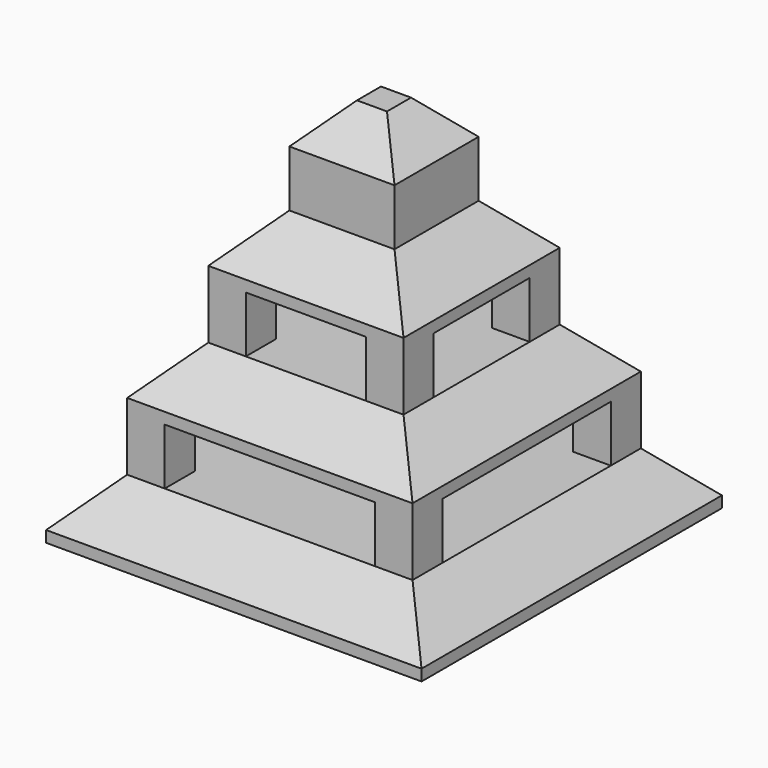
from build123d import *

# Parameters (mm, degrees)
F0_W      = 100
F0_H      = 100
F1_DEPTH  = 15
F2_SIZE   = 12
F3_W      = 10
F3_H      = 10
F4_DEPTH  = 15
F5_W      = 10
F5_H      = 10
F6_DEPTH  = 15
F7_SIZE   = 12
F8_W      = 10
F8_H      = 10
F9_DEPTH  = 15
F10_W     = 52
F10_H     = 52
F11_DEPTH = 15
F12_SIZE  = 12
F13_DEPTH = 25
F14_SIZE  = 10


with BuildPart() as f1:
    # F0 (on Top) → F1 (new body)
    with BuildSketch(Plane.XY):
        Rectangle(F0_W, F0_H)
    extrude(amount=F1_DEPTH)

    # F2
    f2_edges = [f1.edges().sort_by_distance(p)[0] for p in [
        (0, 50, 15),
        (-50, 0, 15),
        (0, -50, 15),
        (50, 0, 15),
    ]]
    chamfer(f2_edges, length=F2_SIZE)

    # F3 (on face) → F4 (join)
    with BuildSketch(Plane.XY.offset(15)):
        with Locations((-33, 33)):
            Rectangle(F3_W, F3_H)
        with Locations((33, 33)):
            Rectangle(F3_W, F3_H)
        with Locations((33, -33)):
            Rectangle(F3_W, F3_H)
        with Locations((-33, -33)):
            Rectangle(F3_W, F3_H)
    extrude(amount=F4_DEPTH)

    # F5 (on face) → F6 (join)
    with BuildSketch(Plane.XY.offset(30)):
        Polygon((38, 38), (-28, 38), (-28, 28), (-38, 28), (-38, -38), (38, -38), align=None)
        with Locations((-33, 33)):
            Rectangle(F5_W, F5_H)
    extrude(amount=F6_DEPTH)

    # F7
    f7_edges = [f1.edges().sort_by_distance(p)[0] for p in [
        (0, 38, 45),
        (-38, 0, 45),
        (0, -38, 45),
        (38, 0, 45),
    ]]
    chamfer(f7_edges, length=F7_SIZE)

    # F8 (on face) → F9 (join)
    with BuildSketch(Plane.XY.offset(45)):
        with Locations((-21, 21)):
            Rectangle(F8_W, F8_H)
        with Locations((21, 21)):
            Rectangle(F8_W, F8_H)
        with Locations((21, -21)):
            Rectangle(F8_W, F8_H)
        with Locations((-21, -21)):
            Rectangle(F8_W, F8_H)
    extrude(amount=F9_DEPTH)

    # F10 (on face) → F11 (join)
    with BuildSketch(Plane.XY.offset(60)):
        Rectangle(F10_W, F10_H)
    extrude(amount=F11_DEPTH)

    # F12
    f12_edges = [f1.edges().sort_by_distance(p)[0] for p in [
        (0, 26, 75),
        (-26, 0, 75),
        (0, -26, 75),
        (26, 0, 75),
    ]]
    chamfer(f12_edges, length=F12_SIZE)

    # F13 (add): a face of the model
    f13_faces = [f1.faces().sort_by_distance(p)[0] for p in [
        (0, 0, 75),
    ]]
    extrude(f13_faces, amount=F13_DEPTH)

    # F14
    f14_edges = [f1.edges().sort_by_distance(p)[0] for p in [
        (0, 14, 100),
        (14, 0, 100),
        (-14, 0, 100),
        (0, -14, 100),
    ]]
    chamfer(f14_edges, length=F14_SIZE)


solid = f1.part
